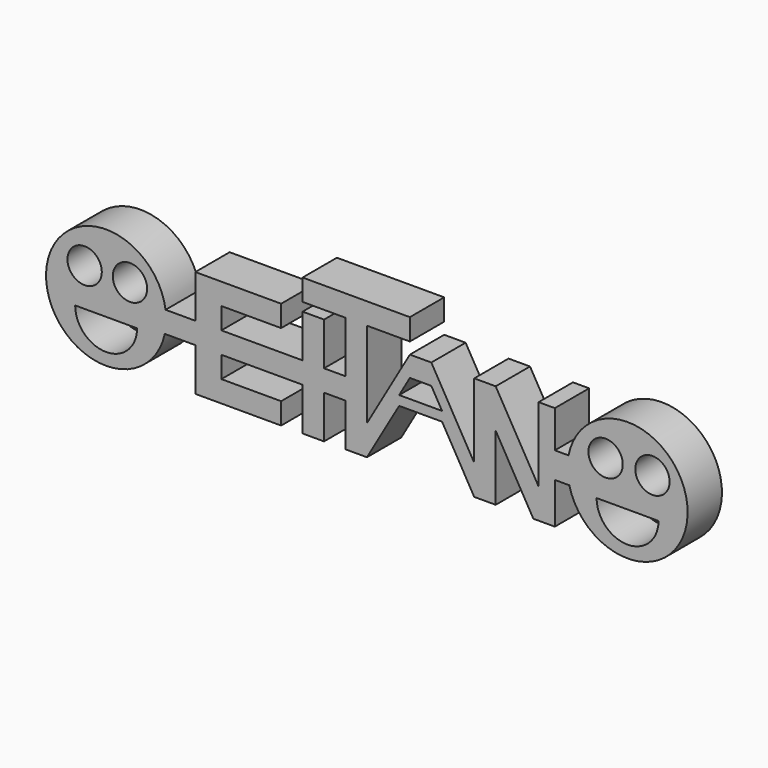
from build123d import *

# Parameters (mm, degrees)
F0_R     = 4.000037
F0_R_2   = 4
F1_DEPTH = 10


with BuildPart() as f1:
    # F0 (on Front) → F1 (new body)
    with BuildSketch(Plane.XZ):
        with BuildLine():
            Line((-53.562295, 17.812143), (-39.631873, 17.812143))
            Line((-39.631873, 17.812143), (-39.631873, 22.812143))
            Line((-39.631873, 22.812143), (-59.631873, 22.812143))
            Line((-59.631873, 22.812143), (-59.631873, 12.812143))
            Line((-59.631873, 12.812143), (-66.560792, 12.812143))
            ThreePointArc((-66.560792, 12.812143), (-94.406932, 11.300926), (-66.738905, 7.812143))
            Line((-66.738905, 7.812143), (-59.631873, 7.812143))
            Line((-59.631873, 7.812143), (-59.631873, -2.187857))
            Line((-59.631873, -2.187857), (-39.631873, -2.187857))
            Line((-39.631873, -2.187857), (-39.631873, 2.812143))
            Line((-39.631873, 2.812143), (-53.562295, 2.812143))
            Line((-53.562295, 2.812143), (-53.562295, 7.812143))
            Line((-53.562295, 7.812143), (-39.631873, 7.812143))
            Line((-39.631873, 7.812143), (-34.631873, 7.812143))
            Line((-34.631873, 7.812143), (-34.631873, -2.187857))
            Line((-34.631873, -2.187857), (-29.631873, -2.187857))
            Line((-29.631873, -2.187857), (-29.631873, 7.812143))
            Line((-29.631873, 7.812143), (-24.631873, 7.812143))
            Line((-24.631873, 7.812143), (-24.631873, -2.187857))
            Line((-24.631873, -2.187857), (-19.631873, -2.187857))
            Line((-19.631873, -2.187857), (-12.131873, 10.802524))
            Line((-12.131873, 10.802524), (-2.131873, 10.802524))
            Line((-2.131873, 10.802524), (5.368127, -2.187857))
            Line((5.368127, -2.187857), (10.368127, -2.187857))
            Line((10.368127, -2.187857), (10.368127, 13.015858))
            Line((10.368127, 13.015858), (19.145996, -2.187857))
            Line((19.145996, -2.187857), (24.145996, -2.187857))
            Line((24.145996, -2.187857), (24.145996, 7.406078))
            Line((24.145996, 7.406078), (27.516475, 7.406078))
            ThreePointArc((27.516475, 7.406078), (55.093287, 11.174656), (27.35517, 13.472397))
            Line((27.35517, 13.472397), (24.145996, 13.472397))
            Line((24.145996, 13.472397), (24.145996, 22.132651))
            Line((24.145996, 22.132651), (20.368127, 22.132651))
            Line((20.368127, 22.132651), (20.368127, 4.812143))
            Line((20.368127, 4.812143), (10.368127, 22.132651))
            Line((10.368127, 22.132651), (5.368127, 22.132651))
            Line((5.368127, 22.132651), (5.368127, 6.907172))
            Line((5.368127, 6.907172), (5.368127, 4.812143))
            Line((5.368127, 4.812143), (-4.631873, 22.132651))
            Line((-4.631873, 22.132651), (-9.631873, 22.132651))
            Line((-9.631873, 22.132651), (-19.631873, 4.812143))
            Line((-19.631873, 4.812143), (-19.631873, 6.907172))
            Line((-19.631873, 6.907172), (-19.631873, 24.812143))
            Line((-19.631873, 24.812143), (-9.631873, 24.812143))
            Line((-9.631873, 24.812143), (-9.631873, 29.812143))
            Line((-9.631873, 29.812143), (-34.631873, 29.812143))
            Line((-34.631873, 29.812143), (-34.631873, 24.812143))
            Line((-34.631873, 24.812143), (-24.631873, 24.812143))
            Line((-24.631873, 24.812143), (-24.631873, 12.812143))
            Line((-24.631873, 12.812143), (-29.631873, 12.812143))
            Line((-29.631873, 12.812143), (-29.631873, 22.812143))
            Line((-29.631873, 22.812143), (-34.631873, 22.812143))
            Line((-34.631873, 22.812143), (-34.631873, 12.812143))
            Line((-34.631873, 12.812143), (-39.631873, 12.812143))
            Line((-39.631873, 12.812143), (-53.562295, 12.812143))
            Line((-53.562295, 12.812143), (-53.562295, 17.812143))
        make_face()
        with BuildLine():
            ThreePointArc((-73.200306, 6.85316), (-80.415806, -0.36234), (-87.631306, 6.85316))
            Line((-87.631306, 6.85316), (-73.200306, 6.85316))
        make_face(mode=Mode.SUBTRACT)
        with BuildLine():
            ThreePointArc((48.313583, 6.85316), (41.098233, -0.36219), (33.882884, 6.85316))
            Line((33.882884, 6.85316), (48.313583, 6.85316))
        make_face(mode=Mode.SUBTRACT)
        with Locations((-85.42119, 15.723815)):
            Circle(F0_R, mode=Mode.SUBTRACT)
        with Locations((-74.859366, 15.723815)):
            Circle(F0_R_2, mode=Mode.SUBTRACT)
        Polygon((-9.631873, 17.345985), (-4.631873, 17.345985), (-2.131873, 13.015858), (-12.131873, 13.015858), align=None, mode=Mode.SUBTRACT)
        with Locations((35.980549, 15.723815)):
            Circle(F0_R_2, mode=Mode.SUBTRACT)
        with Locations((46.898279, 15.723815)):
            Circle(F0_R_2, mode=Mode.SUBTRACT)
    extrude(amount=F1_DEPTH)


solid = f1.part
